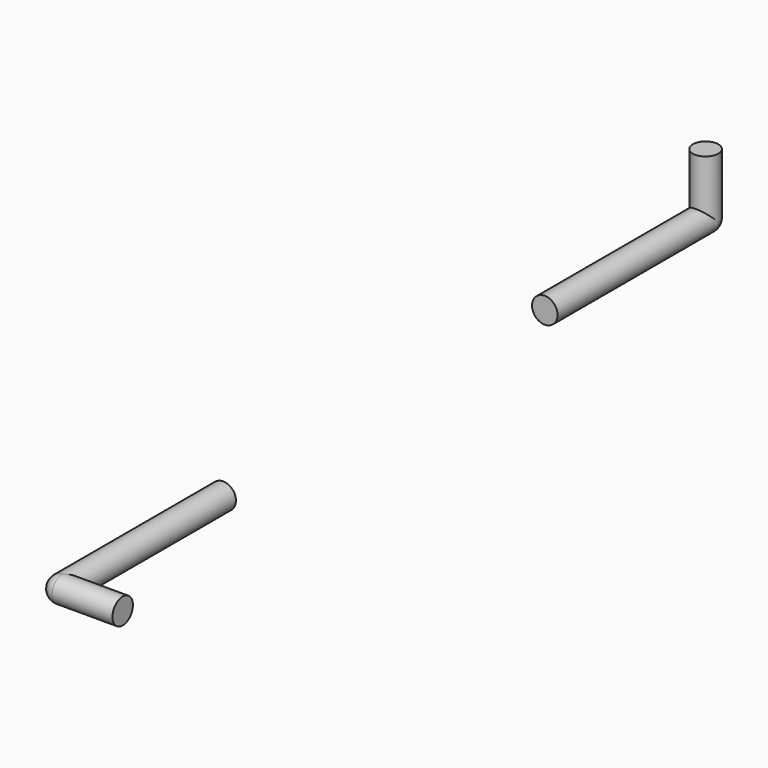
from build123d import *

# Parameters (mm, degrees)
F0_R     = 6.35
F1_DEPTH = 30
F2_R     = 6.35
F3_DEPTH = 100
F7_ANGLE = -90


with BuildPart() as f1:
    # F0 (on Top) → F1 (new body)
    with BuildSketch(Plane.XY):
        Circle(F0_R)
    extrude(amount=F1_DEPTH)

    # F2 (on Front) → F3 (join)
    with BuildSketch(Plane.XZ):
        Circle(F2_R)
    extrude(amount=F3_DEPTH)

    # F1_face (on face) → F4 (revolve)
    with BuildSketch(Plane(origin=(0, 2.695023703, 0), x_dir=(1, 0, 0), z_dir=(0, 0, -1))):
        with BuildLine():
            Line((6.35, 2.695023703), (-6.35, 2.695023703))
            ThreePointArc((-6.35, 2.695023703), (0, -3.654976297), (6.35, 2.695023703))
        make_face()
    revolve(axis=Axis((0, 0, 0), (1, 0, 0)))


with BuildPart() as f6_1:
    # F6: instance of F1
    add(f1.part.mirror(Plane.XZ.offset(200)))


with BuildPart() as f6_1_1:
    # F7: moved
    add(f6_1.part.rotate(Axis((0, -400, 0), (0, -1, 0)), F7_ANGLE))


solid = Compound([f1.part, f6_1_1.part])
